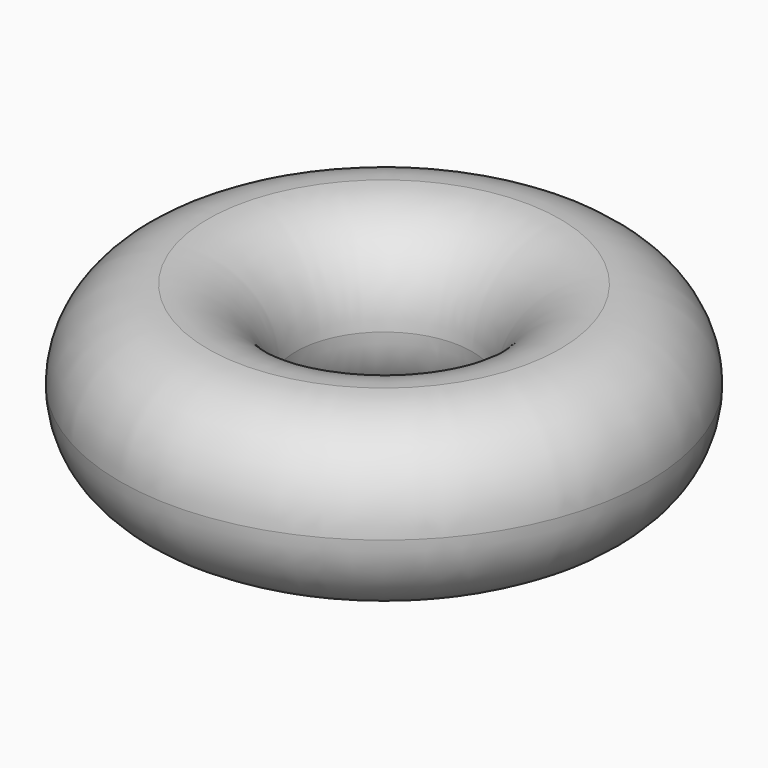
from build123d import *


with BuildPart() as f1:
    # F0 (on Front) → F1 (revolve)
    with BuildSketch(Plane.XZ):
        with BuildLine():
            ThreePointArc((75.696888, 69.68687), (53.378425, 123.568406), (-0.503112, 145.88687))
            ThreePointArc((-0.503112, 145.88687), (-54.384648, 123.568406), (-76.703112, 69.68687))
            ThreePointArc((-76.703112, 69.68687), (-54.384648, 15.805333), (-0.503112, -6.51313))
            ThreePointArc((-0.503112, -6.51313), (53.378425, 15.805333), (75.696888, 69.68687))
        make_face()
    revolve(axis=Axis((-152.903112, 0, 83.688465), (0, 0, 1)))


solid = f1.part
